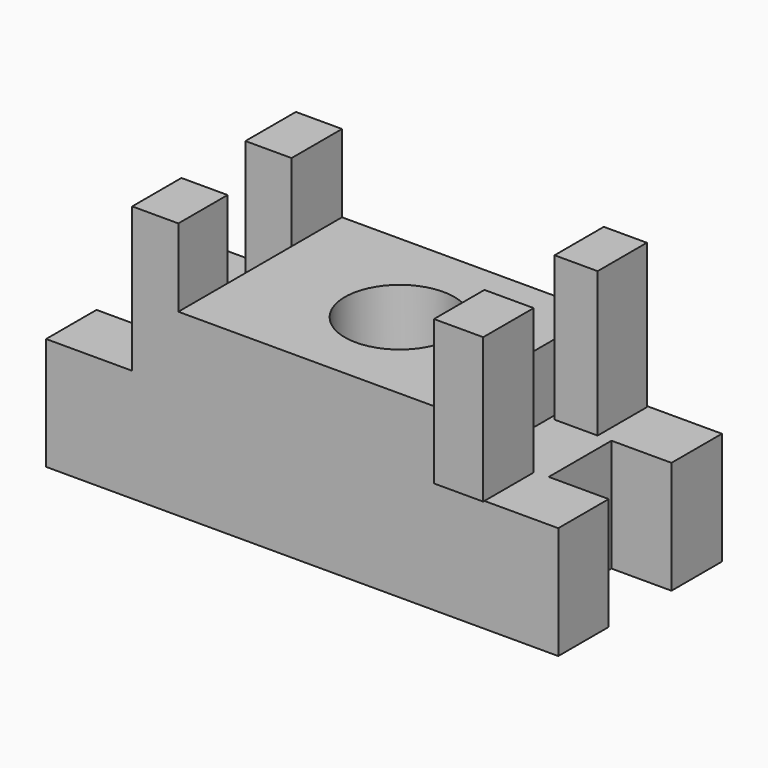
from build123d import *

# Parameters (mm, degrees)
F0_W     = 11.3675408065
F0_H     = 11.9504919276
F0_W_2   = 11.3675370812
F0_H_2   = 11.9504933245
F1_DEPTH = 21.336
F2_W     = 48.9678680897
F2_H     = 38.7662313879
F3_DEPTH = 12.7
F4_W     = 8.7442621589
F4_H     = 11.9504933245
F4_H_2   = 11.659016367
F4_W_2   = 8.1613156945
F4_H_3   = 11.6590172984
F4_W_3   = 9.3272179365
F4_H_4   = 11.9504923932
F5_DEPTH = 27.432
F6_R     = 10.3791447845
F7_DEPTH = 76.2


with BuildPart() as f1:
    # F0 (on Top) → F1 (new body)
    with BuildSketch(Plane.XY):
        Polygon((-34.1026224196, -7.1411477402), (-34.1026224196, -19.0916396677), (40.2236096561, -19.0916396677), (40.2236096561, -7.1411477402), (40.2236096561, 7.7240983956), (40.2236096561, 19.6745917201), (-34.1026224196, 19.6745917201), (-34.1026224196, 7.7240983956), align=None)
        with Locations((-39.7863928229, -13.116393704)):
            Rectangle(F0_W, F0_H)
        with Locations((45.9073781967, -13.116393704)):
            Rectangle(F0_W_2, F0_H)
        with Locations((-39.7863928229, 13.6993450578)):
            Rectangle(F0_W, F0_H_2)
        with Locations((45.9073781967, 13.6993450578)):
            Rectangle(F0_W_2, F0_H_2)
    extrude(amount=F1_DEPTH)

    # F2 (on face) → F3 (join)
    with BuildSketch(Plane.XY.offset(21.336)):
        with Locations((4.0806550533, 0.2914760262)):
            Rectangle(F2_W, F2_H)
    extrude(amount=F3_DEPTH)

    # F4 (on face) → F5 (join)
    with BuildSketch(Plane.XY.offset(21.336)):
        with Locations((-24.775410071, 13.6993450578)):
            Rectangle(F4_W, F4_H)
        with Locations((-24.775410071, -13.2621314842)):
            Rectangle(F4_W, F4_H_2)
        with Locations((33.5196731612, 13.5536070447)):
            Rectangle(F4_W_2, F4_H_3)
        with Locations((32.9367220402, -13.4078694973)):
            Rectangle(F4_W_3, F4_H_4)
    extrude(amount=F5_DEPTH)

    # F6 (on face) → F7 (cut)
    with BuildSketch(Plane.XY.offset(34.036)):
        with Locations((6.2667215243, 0)):
            Circle(F6_R)
    extrude(amount=-F7_DEPTH, mode=Mode.SUBTRACT)


solid = f1.part
